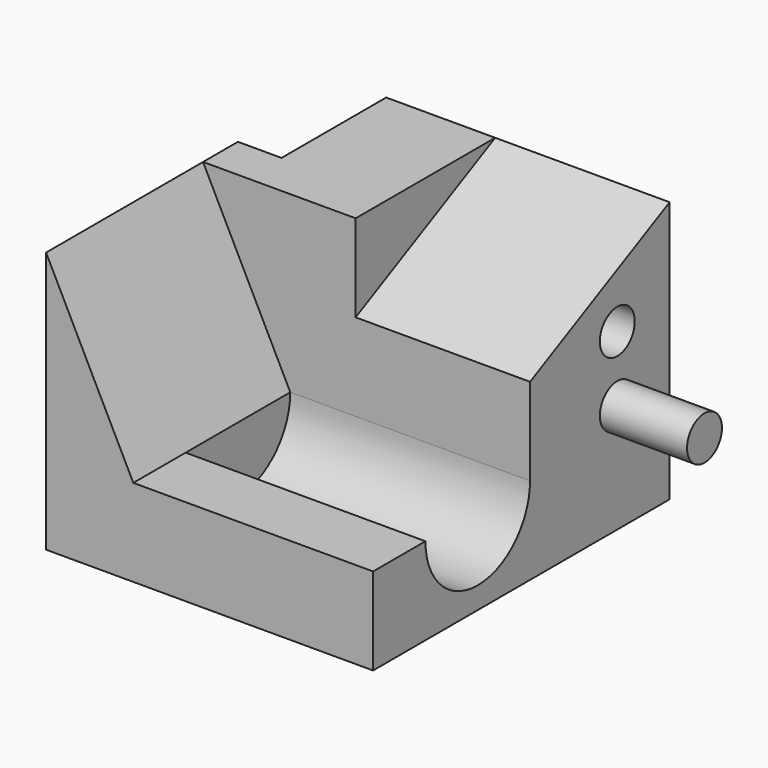
from build123d import *

# Parameters (mm, degrees)
F0_W      = 75
F0_H      = 85
F1_DEPTH  = 60
F2_R      = 5
F3_DEPTH  = 20
F4_R      = 5
F5_DEPTH  = 30
F6_W      = 10
F6_H      = 30
F7_DEPTH  = 60.001
F9_DEPTH  = 45
F11_DEPTH = 40
F12_W     = 45
F12_H     = 40
F13_DEPTH = 55
F14_R     = 15
F15_DEPTH = 55
F16_W     = 20
F16_H     = 20
F17_DEPTH = 50


with BuildPart() as f1:
    # F0 (on Top) → F1 (new body)
    with BuildSketch(Plane.XY):
        with Locations((37.5, 42.5)):
            Rectangle(F0_W, F0_H)
    extrude(amount=F1_DEPTH)

    # F2 (on face) → F3 (join)
    with BuildSketch(Plane.YZ.offset(75)):
        with Locations((70, 25)):
            Circle(F2_R)
    extrude(amount=F3_DEPTH)

    # F4 (on face) → F5 (cut)
    with BuildSketch(Plane.YZ.offset(75)):
        with Locations((70, 40)):
            Circle(F4_R)
    extrude(amount=-F5_DEPTH, mode=Mode.SUBTRACT)

    # F6 (on face) → F7 (cut, through all)
    with BuildSketch(Plane.XY.offset(60)):
        with Locations((5, 70)):
            Rectangle(F6_W, F6_H)
    extrude(amount=-F7_DEPTH, mode=Mode.SUBTRACT)

    # F8 (on face) → F9 (cut)
    with BuildSketch(Plane.XZ):
        Polygon((20, 60), (0, 60), (20, 20), align=None)
    extrude(amount=-F9_DEPTH, mode=Mode.SUBTRACT)

    # F10 (on face) → F11 (cut)
    with BuildSketch(Plane.YZ.offset(75)):
        Polygon((45, 40), (85, 60), (45, 60), align=None)
    extrude(amount=-F11_DEPTH, mode=Mode.SUBTRACT)

    # F12 (on face) → F13 (cut)
    with BuildSketch(Plane.YZ.offset(75)):
        with Locations((22.5, 40)):
            Rectangle(F12_W, F12_H)
    extrude(amount=-F13_DEPTH, mode=Mode.SUBTRACT)

    # F14 (on face) → F15 (cut, through all)
    with BuildSketch(Plane.YZ.offset(75)):
        with Locations((30, 20)):
            Circle(F14_R)
    extrude(amount=-F15_DEPTH, mode=Mode.SUBTRACT)

    # F16 (on face) → F17 (cut)
    with BuildSketch(Plane(origin=(0, 0, 0), x_dir=(1, 0, 0), z_dir=(0, 0, -1))):
        with Locations((20, -70)):
            Rectangle(F16_W, F16_H)
    extrude(amount=-F17_DEPTH, mode=Mode.SUBTRACT)


solid = f1.part
